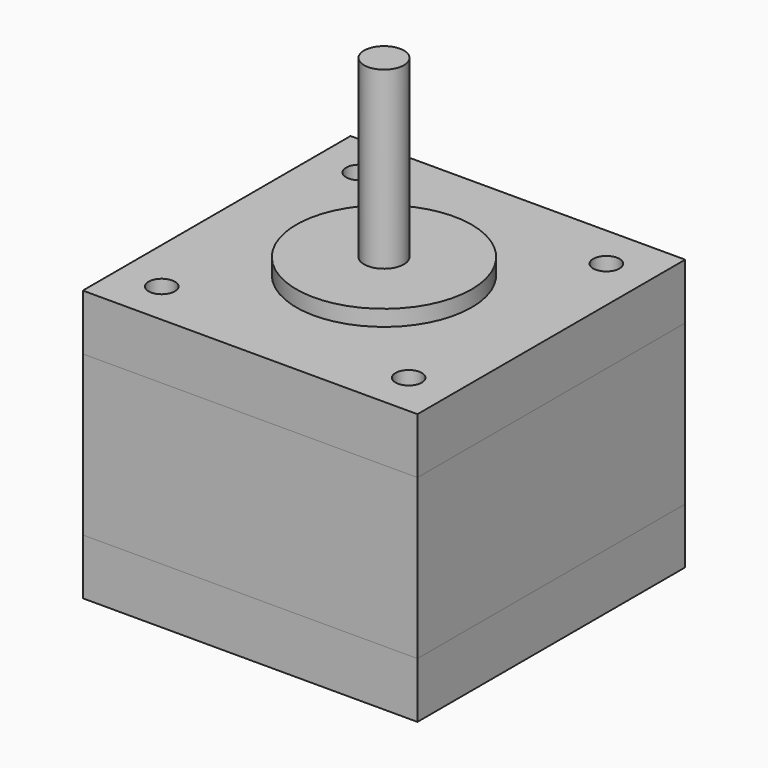
from build123d import *

# Parameters (mm, degrees)
F0_W     = 42
F0_H     = 42
F1_DEPTH = 7
F2_DEPTH = 20
F3_DEPTH = 7
F5_D     = 3.3
F5_2_D   = 3.3
F5_3_D   = 3.3
F6_R     = 11
F7_DEPTH = 2
F8_R     = 2.5
F9_DEPTH = 22


with BuildPart() as f1:
    # F0 (on Top) → F1 (new body)
    with BuildSketch(Plane.XY):
        Rectangle(F0_W, F0_H)
    extrude(amount=F1_DEPTH)


with BuildPart() as f2:
    # F2 (new): a face of the model
    f2_faces = [f1.part.faces().sort_by_distance(p)[0] for p in [
        (0, 0, 7),
    ]]
    extrude(f2_faces, amount=F2_DEPTH)


with BuildPart() as f3:
    # F3 (new): a face of the model
    f3_faces = [f2.part.faces().sort_by_distance(p)[0] for p in [
        (0, 0, 27),
    ]]
    extrude(f3_faces, amount=F3_DEPTH)

    # F5#3 (through all)
    with Locations(Plane.XY.offset(34)):
        with Locations((-15.5, 15.5), (15.5, 15.5), (-15.5, -15.5), (15.5, -15.5)):
            Hole(F5_3_D / 2)

    # F6 (on face) → F7 (join)
    with BuildSketch(Plane.XY.offset(34)):
        Circle(F6_R)
    extrude(amount=F7_DEPTH)

    # F8 (on face) → F9 (join)
    with BuildSketch(Plane.XY.offset(36)):
        Circle(F8_R)
    extrude(amount=F9_DEPTH)


with BuildPart() as f1_1:
    add(f1.part)

    # F5 (through all)
    with Locations(Plane.XY.offset(34)):
        with Locations((-15.5, 15.5), (15.5, 15.5), (-15.5, -15.5), (15.5, -15.5)):
            Hole(F5_D / 2)


with BuildPart() as f2_1:
    add(f2.part)

    # F5#2 (through all)
    with Locations(Plane.XY.offset(34)):
        with Locations((-15.5, 15.5), (15.5, 15.5), (-15.5, -15.5), (15.5, -15.5)):
            Hole(F5_2_D / 2)


solid = Compound([f3.part, f1_1.part, f2_1.part])
